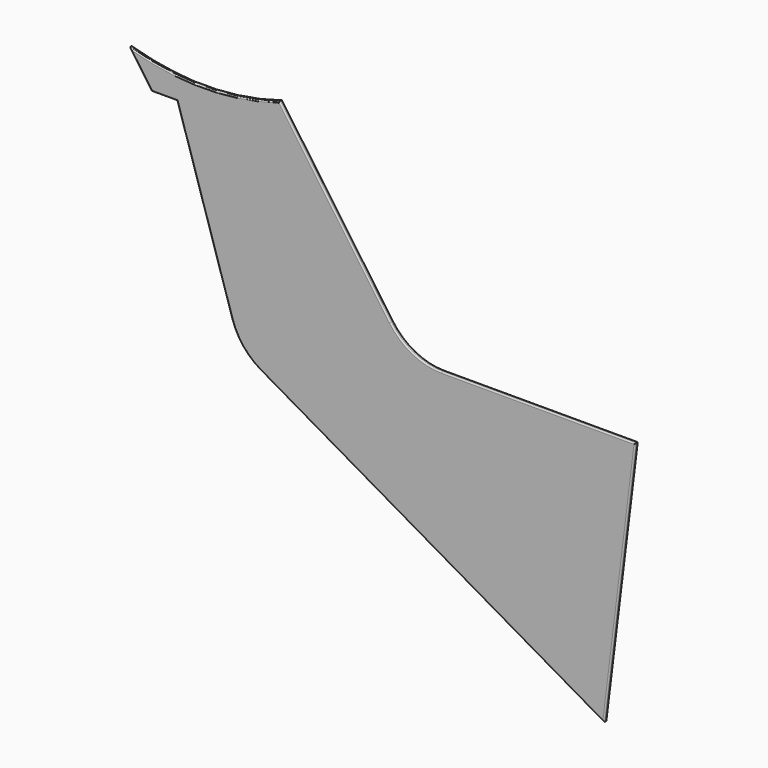
from build123d import *

# Parameters (mm, degrees)
F1_DEPTH = 6
F2_R     = 2


with BuildPart() as f1:
    # F0 (on Front) → F1 (new body)
    with BuildSketch(Plane.XZ):
        with BuildLine():
            Line((360, 0), (52.0567050552, 0))
            ThreePointArc((52.0567050552, 0), (5.8818437317, 11.2989166822), (-29.8584993737, 42.6423563649))
            Line((-29.8584993737, 42.6423563649), (-206.4875170864, 294.894735944))
            ThreePointArc((-206.4875170864, 294.894735944), (-325.6056433934, 276.0207718078), (-445, 293.0602010125))
            Line((-445, 293.0602010125), (-409.7981819701, 242.7867947594))
            Line((-409.7981819701, 242.7867947594), (-369.469934372, 242.7867947594))
            Line((-369.469934372, 242.7867947594), (-281.9308295328, -34.8517751521))
            ThreePointArc((-281.9308295328, -34.8517751521), (-264.5475827672, -67.3735424201), (-236.559134458, -91.3837355802))
            Line((-236.559134458, -91.3837355802), (310, -406.9397989875))
            Line((310, -406.9397989875), (360, 0))
        make_face()
    extrude(amount=F1_DEPTH)

    # F2
    f2_edges = [f1.edges().sort_by_distance(p)[0] for p in [
        (36.720433, -6, -249.161767),
        (335, -6, -203.469899),
        (206.028353, -6, 0),
        (5.881844, -6, 11.298917),
        (-118.173008, -6, 168.768546),
        (-325.605643, -6, 276.020772),
        (-427.399091, -6, 267.923498),
        (-389.634058, -6, 242.786795),
        (-325.700382, -6, 103.96751),
        (-264.547583, -6, -67.373542),
        (36.720433, 0, -249.161767),
        (335, 0, -203.469899),
        (206.028353, 0, 0),
        (5.881844, 0, 11.298917),
        (-118.173008, 0, 168.768546),
        (-325.605643, 0, 276.020772),
        (-427.399091, 0, 267.923498),
        (-389.634058, 0, 242.786795),
        (-325.700382, 0, 103.96751),
        (-264.547583, 0, -67.373542),
    ]]
    fillet(f2_edges, radius=F2_R)


solid = f1.part
